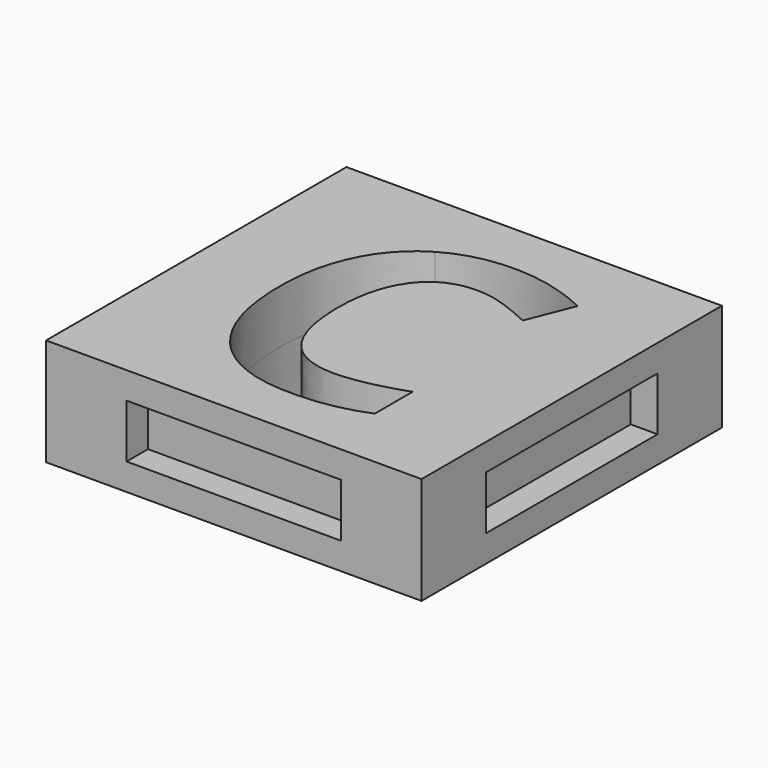
from build123d import *

# Parameters (mm, degrees)
F0_W     = 35.56
F0_H     = 35.56
F1_DEPTH = 5.08
F2_W     = 19.812
F2_H     = 4.572
F3_DEPTH = 2.54
F4_W     = 19.812
F4_H     = 4.572
F5_DEPTH = 2.54
F6_W     = 20.32
F6_H     = 5.08
F7_DEPTH = 2.54
F8_W     = 20.32
F8_H     = 5.08
F9_DEPTH = 2.54


with BuildPart() as f1:
    # F0 (on Top) → F1 (new body, symmetric)
    with BuildSketch(Plane.XY):
        Rectangle(F0_W, F0_H)
        with BuildLine():
            add(Edge.make_bspline(
                [(4.911328125, 7.9016710069), (3.4836805556, 8.4005208333), (2.1056423611, 8.4005208333)],
                knots=[0, 0, 0, 1, 1, 1], degree=2))
            add(Edge.make_bspline(
                [(2.1056423611, 8.4005208333), (-0.9095052083, 8.4005208333), (-2.5631510417, 6.1350260417)],
                knots=[0, 0, 0, 1, 1, 1], degree=2))
            add(Edge.make_bspline(
                [(-2.5631510417, 6.1350260417), (-4.216796875, 3.86953125), (-4.216796875, -0.1763888889)],
                knots=[0, 0, 0, 1, 1, 1], degree=2))
            add(Edge.make_bspline(
                [(-4.216796875, -0.1763888889), (-4.216796875, -8.5989583333), (2.1056423611, -8.5989583333)],
                knots=[0, 0, 0, 1, 1, 1], degree=2))
            add(Edge.make_bspline(
                [(2.1056423611, -8.5989583333), (4.7569878472, -8.5989583333), (8.5273003472, -7.2760416667)],
                knots=[0, 0, 0, 1, 1, 1], degree=2))
            Line((8.5273003472, -7.2760416667), (8.5273003472, -11.7519097222))
            add(Edge.make_bspline(
                [(8.5273003472, -11.7519097222), (5.4294704861, -13.047265625), (1.6040364583, -13.047265625)],
                knots=[0, 0, 0, 1, 1, 1], degree=2))
            add(Edge.make_bspline(
                [(1.6040364583, -13.047265625), (-3.8915798611, -13.047265625), (-6.8019965278, -9.7124131944)],
                knots=[0, 0, 0, 1, 1, 1], degree=2))
            add(Edge.make_bspline(
                [(-6.8019965278, -9.7124131944), (-9.7124131944, -6.3775607639), (-9.7124131944, -0.1433159722)],
                knots=[0, 0, 0, 1, 1, 1], degree=2))
            add(Edge.make_bspline(
                [(-9.7124131944, -0.1433159722), (-9.7124131944, 3.7868489583), (-8.2820095486, 6.7413628472)],
                knots=[0, 0, 0, 1, 1, 1], degree=2))
            add(Edge.make_bspline(
                [(-8.2820095486, 6.7413628472), (-6.8516059028, 9.6958767361), (-4.1726996528, 11.2695963542)],
                knots=[0, 0, 0, 1, 1, 1], degree=2))
            add(Edge.make_bspline(
                [(-4.1726996528, 11.2695963542), (-1.4937934028, 12.8433159722), (2.1056423611, 12.8433159722)],
                knots=[0, 0, 0, 1, 1, 1], degree=2))
            add(Edge.make_bspline(
                [(2.1056423611, 12.8433159722), (5.7712239583, 12.8433159722), (9.475390625, 11.0739149306)],
                knots=[0, 0, 0, 1, 1, 1], degree=2))
            Line((9.475390625, 11.0739149306), (7.7555989583, 6.7303385417))
            add(Edge.make_bspline(
                [(7.7555989583, 6.7303385417), (6.3389756944, 7.4028211806), (4.911328125, 7.9016710069)],
                knots=[0, 0, 0, 1, 1, 1], degree=2))
        make_face(mode=Mode.SUBTRACT)
    extrude(amount=F1_DEPTH, both=True)

    # F2 (on face) → F3 (join)
    with BuildSketch(Plane(origin=(0, 17.78, 0), x_dir=(-1, 0, 0), z_dir=(0, 1, 0))):
        Rectangle(F2_W, F2_H)
    extrude(amount=F3_DEPTH)

    # F4 (on face) → F5 (join)
    with BuildSketch(Plane(origin=(-17.78, 0, 0), x_dir=(0, -1, 0), z_dir=(-1, 0, 0))):
        Rectangle(F4_W, F4_H)
    extrude(amount=F5_DEPTH)

    # F6 (on face) → F7 (cut)
    with BuildSketch(Plane.XZ.offset(17.78)):
        Rectangle(F6_W, F6_H)
    extrude(amount=-F7_DEPTH, mode=Mode.SUBTRACT)

    # F8 (on face) → F9 (cut)
    with BuildSketch(Plane.YZ.offset(17.78)):
        Rectangle(F8_W, F8_H)
    extrude(amount=-F9_DEPTH, mode=Mode.SUBTRACT)


solid = f1.part
